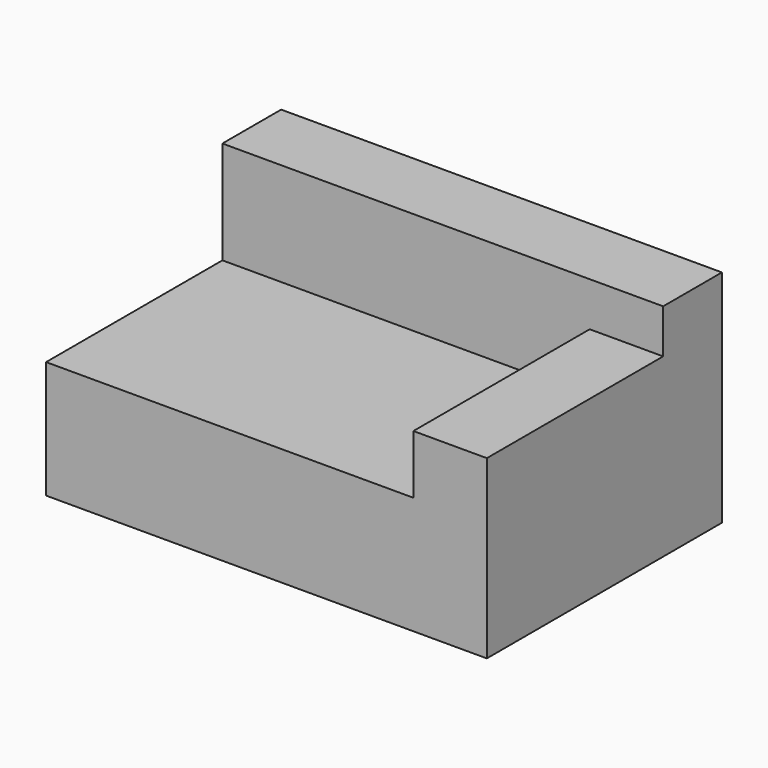
from build123d import *

# Parameters (mm, degrees)
F0_W     = 1500
F0_H     = 1000
F1_DEPTH = 750
F2_W     = 1250
F2_H     = 750
F3_DEPTH = 350
F4_W     = 250
F4_H     = 750
F5_DEPTH = 150


with BuildPart() as f1:
    # F0 (on Top) → F1 (new body)
    with BuildSketch(Plane.XY):
        Rectangle(F0_W, F0_H)
    extrude(amount=F1_DEPTH)

    # F2 (on face) → F3 (cut)
    with BuildSketch(Plane.XY.offset(750)):
        with Locations((-125, -125)):
            Rectangle(F2_W, F2_H)
    extrude(amount=-F3_DEPTH, mode=Mode.SUBTRACT)

    # F4 (on face) → F5 (cut)
    with BuildSketch(Plane.XY.offset(750)):
        with Locations((625, -125)):
            Rectangle(F4_W, F4_H)
    extrude(amount=-F5_DEPTH, mode=Mode.SUBTRACT)


solid = f1.part
